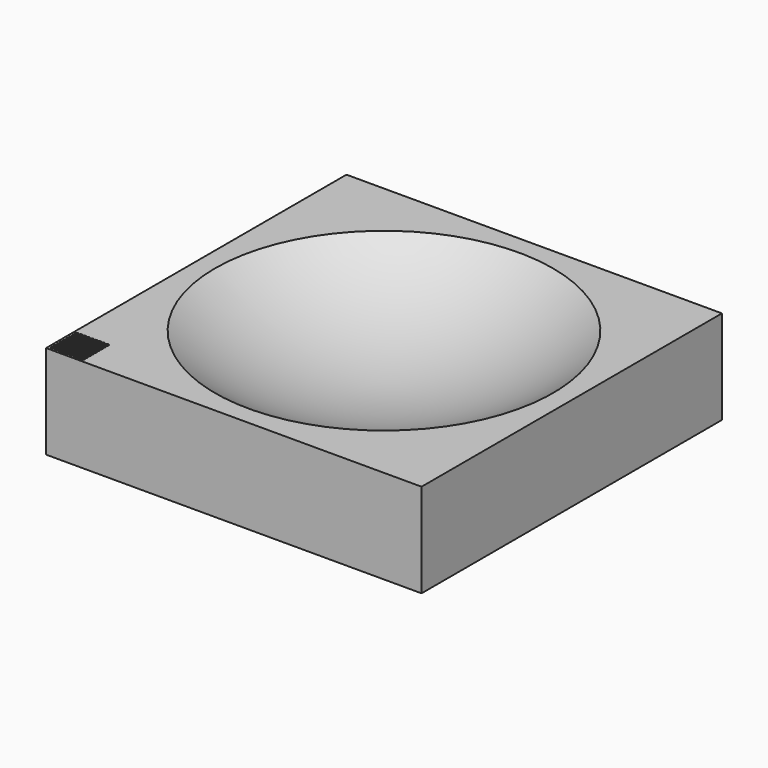
from build123d import *

# Parameters (mm, degrees)
F0_W     = 100
F0_H     = 100
F1_DEPTH = 25
F2_R     = 0.45
F3_DEPTH = 25.001


with BuildPart() as f1:
    # F0 (on Top) → F1 (new body)
    with BuildSketch(Plane.XY):
        Rectangle(F0_W, F0_H)
    extrude(amount=F1_DEPTH)

    # F2 (on face) → F3 (cut, through all)
    with BuildSketch(Plane.XY.offset(25)):
        with Locations((-49, -49)):
            Circle(F2_R)
        with Locations((-49, -48)):
            Circle(F2_R)
        with Locations((-49, -47)):
            Circle(F2_R)
        with Locations((-49, -46)):
            Circle(F2_R)
        with Locations((-49, -45)):
            Circle(F2_R)
        with Locations((-49, -44)):
            Circle(F2_R)
        with Locations((-49, -43)):
            Circle(F2_R)
        with Locations((-49, -42)):
            Circle(F2_R)
        with Locations((-49, -41)):
            Circle(F2_R)
        with Locations((-48, -49)):
            Circle(F2_R)
        with Locations((-48, -48)):
            Circle(F2_R)
        with Locations((-48, -47)):
            Circle(F2_R)
        with Locations((-48, -46)):
            Circle(F2_R)
        with Locations((-48, -45)):
            Circle(F2_R)
        with Locations((-48, -44)):
            Circle(F2_R)
        with Locations((-48, -43)):
            Circle(F2_R)
        with Locations((-48, -42)):
            Circle(F2_R)
        with Locations((-48, -41)):
            Circle(F2_R)
        with Locations((-47, -49)):
            Circle(F2_R)
        with Locations((-47, -48)):
            Circle(F2_R)
        with Locations((-47, -47)):
            Circle(F2_R)
        with Locations((-47, -46)):
            Circle(F2_R)
        with Locations((-47, -45)):
            Circle(F2_R)
        with Locations((-47, -44)):
            Circle(F2_R)
        with Locations((-47, -43)):
            Circle(F2_R)
        with Locations((-47, -42)):
            Circle(F2_R)
        with Locations((-47, -41)):
            Circle(F2_R)
        with Locations((-46, -49)):
            Circle(F2_R)
        with Locations((-46, -48)):
            Circle(F2_R)
        with Locations((-46, -47)):
            Circle(F2_R)
        with Locations((-46, -46)):
            Circle(F2_R)
        with Locations((-46, -45)):
            Circle(F2_R)
        with Locations((-46, -44)):
            Circle(F2_R)
        with Locations((-46, -43)):
            Circle(F2_R)
        with Locations((-46, -42)):
            Circle(F2_R)
        with Locations((-46, -41)):
            Circle(F2_R)
        with Locations((-45, -49)):
            Circle(F2_R)
        with Locations((-45, -48)):
            Circle(F2_R)
        with Locations((-45, -47)):
            Circle(F2_R)
        with Locations((-45, -46)):
            Circle(F2_R)
        with Locations((-45, -45)):
            Circle(F2_R)
        with Locations((-45, -44)):
            Circle(F2_R)
        with Locations((-45, -43)):
            Circle(F2_R)
        with Locations((-45, -42)):
            Circle(F2_R)
        with Locations((-45, -41)):
            Circle(F2_R)
        with Locations((-44, -49)):
            Circle(F2_R)
        with Locations((-44, -48)):
            Circle(F2_R)
        with Locations((-44, -47)):
            Circle(F2_R)
        with Locations((-44, -46)):
            Circle(F2_R)
        with Locations((-44, -45)):
            Circle(F2_R)
        with Locations((-44, -44)):
            Circle(F2_R)
        with Locations((-44, -43)):
            Circle(F2_R)
        with Locations((-44, -42)):
            Circle(F2_R)
        with Locations((-44, -41)):
            Circle(F2_R)
        with Locations((-43, -49)):
            Circle(F2_R)
        with Locations((-43, -48)):
            Circle(F2_R)
        with Locations((-43, -47)):
            Circle(F2_R)
        with Locations((-43, -46)):
            Circle(F2_R)
        with Locations((-43, -45)):
            Circle(F2_R)
        with Locations((-43, -44)):
            Circle(F2_R)
        with Locations((-43, -43)):
            Circle(F2_R)
        with Locations((-43, -42)):
            Circle(F2_R)
        with Locations((-43, -41)):
            Circle(F2_R)
        with Locations((-42, -49)):
            Circle(F2_R)
        with Locations((-42, -48)):
            Circle(F2_R)
        with Locations((-42, -47)):
            Circle(F2_R)
        with Locations((-42, -46)):
            Circle(F2_R)
        with Locations((-42, -45)):
            Circle(F2_R)
        with Locations((-42, -44)):
            Circle(F2_R)
        with Locations((-42, -43)):
            Circle(F2_R)
        with Locations((-42, -42)):
            Circle(F2_R)
        with Locations((-42, -41)):
            Circle(F2_R)
        with Locations((-41, -49)):
            Circle(F2_R)
        with Locations((-41, -48)):
            Circle(F2_R)
        with Locations((-41, -47)):
            Circle(F2_R)
        with Locations((-41, -46)):
            Circle(F2_R)
        with Locations((-41, -45)):
            Circle(F2_R)
        with Locations((-41, -44)):
            Circle(F2_R)
        with Locations((-41, -43)):
            Circle(F2_R)
        with Locations((-41, -42)):
            Circle(F2_R)
        with Locations((-41, -41)):
            Circle(F2_R)
    extrude(amount=-F3_DEPTH, mode=Mode.SUBTRACT)

    # F5 (on offset) → F6 (revolve, cut)
    with BuildSketch(Plane.XZ):
        with BuildLine():
            Line((0, 10), (0, 25))
            Line((0, 25), (-45, 25))
            ThreePointArc((-45, 25), (-23.7170824513, 13.8487526462), (0, 10))
        make_face()
    revolve(axis=Axis((0, 0, 55), (0, 0, 1)), mode=Mode.SUBTRACT)


solid = f1.part
